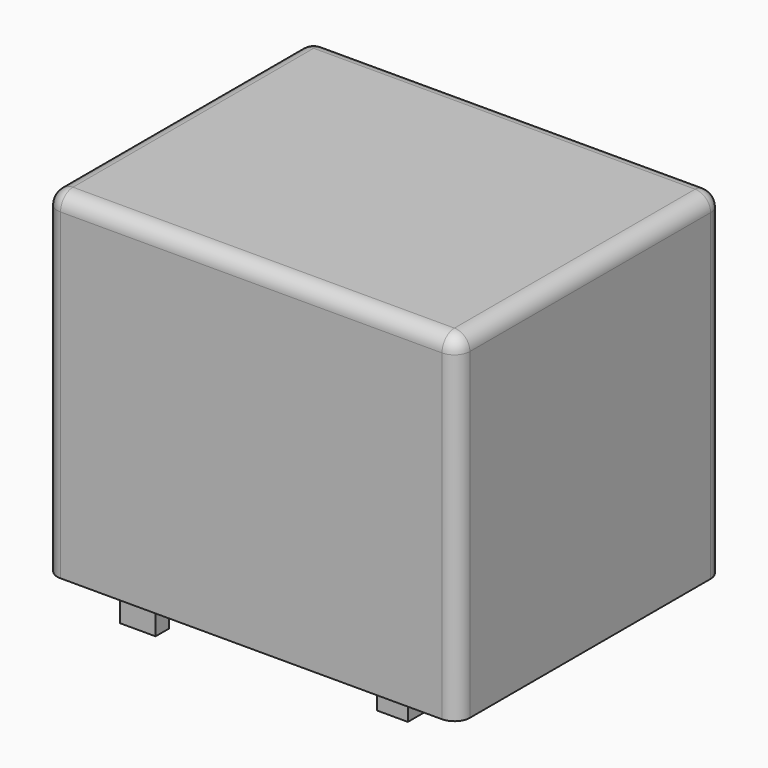
from build123d import *

# Parameters (mm, degrees)
F2_DEPTH = 21.8
F0_W     = 2
F0_H     = 2
F3_DEPTH = 3.2
F0_R     = 0.7
F0_W_2   = 2.3
F0_H_2   = 1.1
F4_R     = 1


with BuildPart() as f2:
    # F1 (on Top) → F2 (new body)
    with BuildSketch(Plane.XY):
        with BuildLine():
            ThreePointArc((-9.6, -5.7), (-9.3071067812, -6.4071067812), (-8.6, -6.7))
            Line((-8.6, -6.7), (16, -6.7))
            ThreePointArc((16, -6.7), (16.7071067812, -6.4071067812), (17, -5.7))
            Line((17, -5.7), (17, 13.7))
            ThreePointArc((17, 13.7), (16.7071067812, 14.4071067812), (16, 14.7))
            Line((16, 14.7), (-8.6, 14.7))
            ThreePointArc((-8.6, 14.7), (-9.3071067812, 14.4071067812), (-9.6, 13.7))
            Line((-9.6, 13.7), (-9.6, -5.7))
        make_face()
    extrude(amount=F2_DEPTH)

    # F4
    f4_edges = [f2.edges().sort_by_distance(p)[0] for p in [
        (-9.6, 4, 21.8),
        (-9.307107, -6.407107, 21.8),
        (3.7, -6.7, 21.8),
        (16.707107, -6.407107, 21.8),
        (17, 4, 21.8),
        (16.707107, 14.407107, 21.8),
        (3.7, 14.7, 21.8),
        (-9.307107, 14.407107, 21.8),
    ]]
    fillet(f4_edges, radius=F4_R)


with BuildPart() as f3:
    # F0 (on Top) → F3 (new body)
    with BuildSketch(Plane.XY):
        with Locations((10, -2.2)):
            Rectangle(F0_W, F0_H)
    extrude(amount=-F3_DEPTH)


with BuildPart() as f3b:
    # F0 (on Top) → F3, piece 2 (new body)
    with BuildSketch(Plane.XY):
        with Locations((7.3, 12.1)):
            Rectangle(F0_W, F0_H)
    extrude(amount=-F3_DEPTH)


with BuildPart() as f3c:
    # F0 (on Top) → F3, piece 3 (new body)
    with BuildSketch(Plane.XY):
        with Locations((4.2, 0)):
            Circle(F0_R)
    extrude(amount=-F3_DEPTH)


with BuildPart() as f3d:
    # F0 (on Top) → F3, piece 4 (new body)
    with BuildSketch(Plane.XY):
        Circle(F0_R)
    extrude(amount=-F3_DEPTH)


with BuildPart() as f3e:
    # F0 (on Top) → F3, piece 5 (new body)
    with BuildSketch(Plane.XY):
        with Locations((-5.9, -3.3)):
            Rectangle(F0_W_2, F0_H_2)
    extrude(amount=-F3_DEPTH)


with BuildPart() as f3f:
    # F0 (on Top) → F3, piece 6 (new body)
    with BuildSketch(Plane.XY):
        with Locations((-5.9, 0)):
            Rectangle(F0_W_2, F0_H_2)
    extrude(amount=-F3_DEPTH)


with BuildPart() as f3g:
    # F0 (on Top) → F3, piece 7 (new body)
    with BuildSketch(Plane.XY):
        with Locations((-3.7, 12.1)):
            Rectangle(F0_W, F0_H)
    extrude(amount=-F3_DEPTH)


solid = Compound([f2.part, f3.part, f3b.part, f3c.part, f3d.part, f3e.part, f3f.part, f3g.part])
